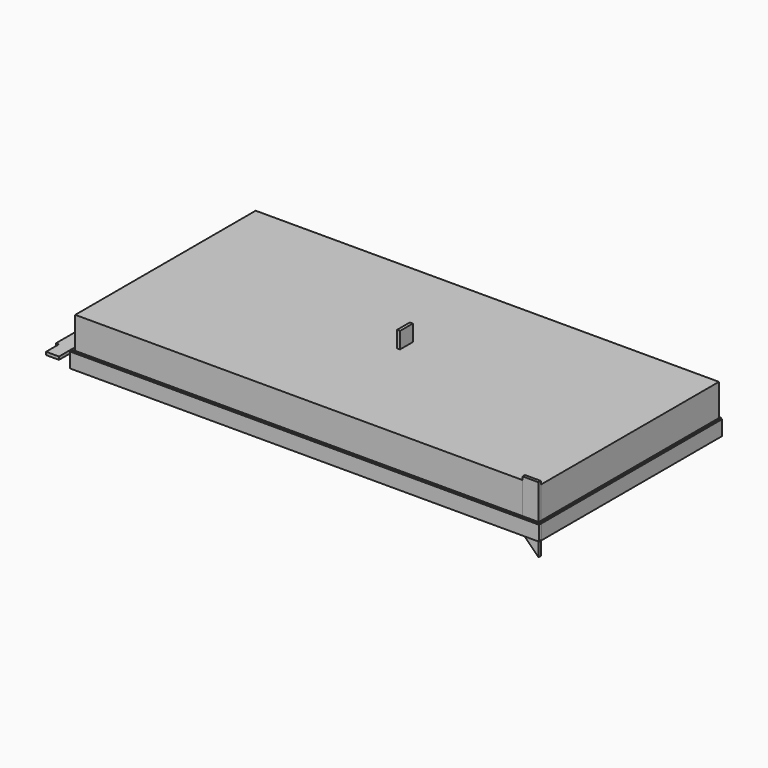
from build123d import *

# Parameters (mm, degrees)
F2_W      = 2962
F2_H      = 1442
F3_DEPTH  = 300
F4_W      = 1442
F4_H      = 101.6
F5_DEPTH  = 19.05
F6_W      = 3000
F6_H      = 101.6
F7_DEPTH  = 19.05
F10_W     = 6.35
F10_H     = 6.35
F11_DEPTH = 3000
F12_W     = 6.35
F12_H     = 6.35
F13_DEPTH = 1442
F14_W     = 101.6
F14_H     = 300
F14_H_2   = 20.8
F15_DEPTH = 19.05
F17_DEPTH = 19
F19_DEPTH = 19
F20_W     = 101.6
F20_H     = 184.2
F21_DEPTH = 19


with BuildPart() as f3:
    # F2 (on Top) → F3 (new body)
    with BuildSketch(Plane.XY):
        Rectangle(F2_W, F2_H)
    extrude(amount=F3_DEPTH)


with BuildPart() as f5:
    # F4 (on offset) → F5 (new body)
    with BuildSketch(Plane.YZ.offset(1481)):
        with Locations((0, 50.8)):
            Rectangle(F4_W, F4_H)
    extrude(amount=F5_DEPTH)

    # F12 (on face) → F13 (cut, through all)
    with BuildSketch(Plane(origin=(0, 721, 0), x_dir=(-1, 0, 0), z_dir=(0, 1, 0))):
        with Locations((-1496.875, 98.425)):
            Rectangle(F12_W, F12_H)
        with Locations((-1484.175, 98.425)):
            Rectangle(F12_W, F12_H)
        with Locations((-1490.525, 3.175)):
            Rectangle(F12_W, F12_H)
    extrude(amount=-F13_DEPTH, mode=Mode.SUBTRACT)


with BuildPart() as f7:
    # F6 (on offset) → F7 (new body)
    with BuildSketch(Plane.XZ.offset(721)):
        with Locations((0, 50.8)):
            Rectangle(F6_W, F6_H)
    extrude(amount=F7_DEPTH)

    # F10 (on face) → F11 (cut, through all)
    with BuildSketch(Plane.YZ.offset(1500)):
        with Locations((-736.875, 98.425)):
            Rectangle(F10_W, F10_H)
        with Locations((-724.175, 98.425)):
            Rectangle(F10_W, F10_H)
        with Locations((-730.525, 3.175)):
            Rectangle(F10_W, F10_H)
    extrude(amount=-F11_DEPTH, mode=Mode.SUBTRACT)


with BuildPart() as f15:
    # F14 (on face) → F15 (new body)
    with BuildSketch(Plane(origin=(0, -721, 0), x_dir=(-1, 0, 0), z_dir=(0, 1, 0))):
        Polygon((-1481, -101.6), (-1379.4, 0), (-1481, 0), align=None)
        with Locations((-1430.2, 150)):
            Rectangle(F14_W, F14_H)
        with Locations((-1430.2, 310.4)):
            Rectangle(F14_W, F14_H_2)
    extrude(amount=F15_DEPTH)


with BuildPart() as f17:
    # F16 (on Top) → F17 (new body)
    with BuildSketch(Plane.XY):
        Polygon((1462, 0), (-1462, 0), (-1462, -82.6), (-1379.4, -82.6), (-1379.4, -101.6), (-101.6, -101.6), (-101.6, -82.55), (101.6, -82.55), (101.6, -101.6), (1379.4, -101.6), (1379.4, -82.6), (1462, -82.6), align=None)
    extrude(amount=F17_DEPTH)


with BuildPart() as f19:
    # F18 (on Top) → F19 (new body)
    with BuildSketch(Plane.XY):
        Polygon((-1682.6, -600.4), (-1682.6, -702), (-1600, -702), (-1600, 702), (-1682.6, 702), (-1682.6, 600.4), (-1701.6, 600.4), (-1701.6, -600.4), align=None)
    extrude(amount=F19_DEPTH)


with BuildPart() as f21:
    # F20 (on Right) → F21 (new body)
    with BuildSketch(Plane.YZ):
        with Locations((50.8, 312.212449)):
            Rectangle(F20_W, F20_H)
    extrude(amount=F21_DEPTH)


solid = Compound([f3.part, f5.part, f7.part, f15.part, f17.part, f19.part, f21.part])
